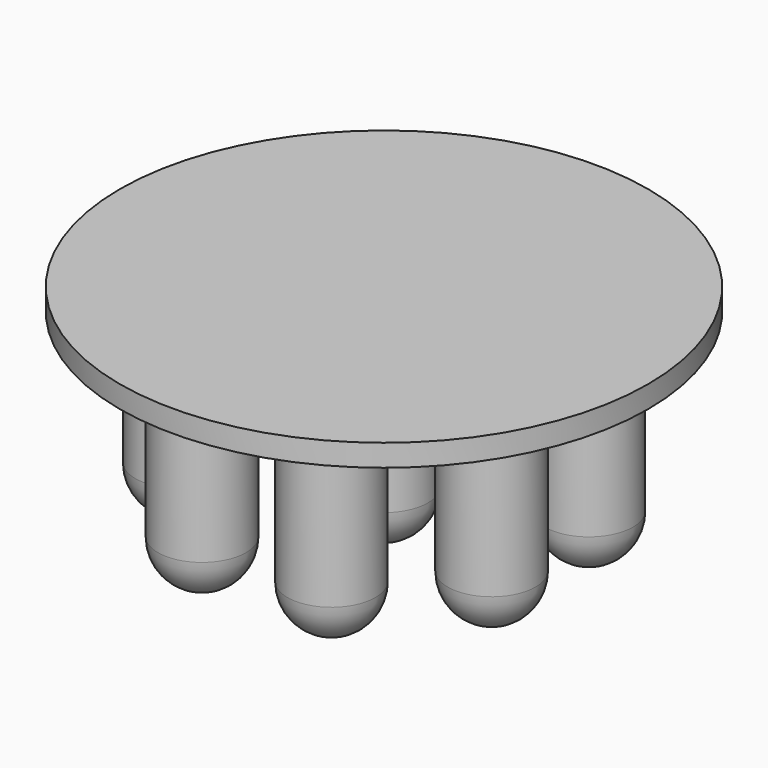
from build123d import *

# Parameters (mm, degrees)
F0_R     = 12
F1_DEPTH = 1
F2_R     = 2.5
F3_DEPTH = 1
F4_R     = 2
F5_DEPTH = 8
F6_R     = 2


with BuildPart() as f1:
    # F0 (on Top) → F1 (new body)
    with BuildSketch(Plane.XY):
        Circle(F0_R)
    extrude(amount=F1_DEPTH)

    # F2 (on Top) → F3 (join)
    with BuildSketch(Plane.XY):
        with Locations((-7.014924, 2.653458)):
            Circle(F2_R)
        with Locations((3.080317, -6.838249)):
            Circle(F2_R)
        with Locations((-3.085257, 6.836022)):
            Circle(F2_R)
        with Locations((-6.837136, -3.082787)):
            Circle(F2_R)
        Circle(F2_R)
        with Locations((6.839361, 3.077847)):
            Circle(F2_R)
        with Locations((7.013005, -2.658525)):
            Circle(F2_R)
        with Locations((-2.655992, -7.013965)):
            Circle(F2_R)
        with Locations((2.650924, 7.015882)):
            Circle(F2_R)
    extrude(amount=-F3_DEPTH)

    # F4 (on face) → F5 (join)
    with BuildSketch(Plane(origin=(0, 0, -1), x_dir=(1, 0, 0), z_dir=(0, 0, -1))):
        with Locations((-3.079479, -6.841555)):
            Circle(F4_R)
        with Locations((6.842186, -3.085332)):
            Circle(F4_R)
        Circle(F4_R)
        with Locations((2.650924, -7.015882)):
            Circle(F4_R)
        with Locations((-2.651925, 7.020854)):
            Circle(F4_R)
        with Locations((-7.02228, -2.650314)):
            Circle(F4_R)
        with Locations((3.08727, 6.842206)):
            Circle(F4_R)
        with Locations((7.019602, 2.663052)):
            Circle(F4_R)
        with Locations((-6.842561, 3.076908)):
            Circle(F4_R)
    extrude(amount=F5_DEPTH)

    # F6
    f6_edges = [f1.edges().sort_by_distance(p)[0] for p in [
        (-2, 0, -9),
        (-4.651925, -7.020854, -9),
        (0.650924, 7.015882, -9),
        (5.019602, -2.663052, -9),
        (-5.079479, 6.841555, -9),
        (4.842186, 3.085332, -9),
        (-9.02228, 2.650314, -9),
        (1.08727, -6.842206, -9),
        (-8.842561, -3.076908, -9),
    ]]
    fillet(f6_edges, radius=F6_R)


solid = f1.part
